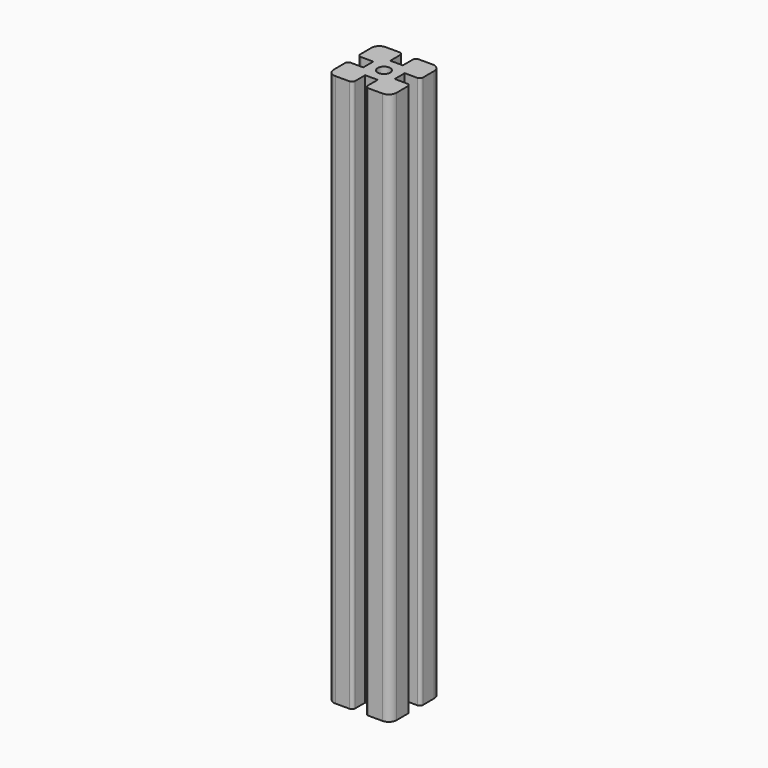
from build123d import *

# Parameters (mm, degrees)
F0_R     = 4
F1_DEPTH = 352
F2_R     = 5
F3_R     = 2


with BuildPart() as f1:
    # F0 (on Top) → F1 (new body)
    with BuildSketch(Plane.XY):
        Polygon((20, 4), (20, 20), (4, 20), (4, 10), (-4, 10), (-4, 20), (-20, 20), (-20, 4), (-10, 4), (-10, -4), (-20, -4), (-20, -20), (-4, -20), (-4, -10), (4, -10), (4, -20), (20, -20), (20, -4), (10, -4), (10, 4), align=None)
        Circle(F0_R, mode=Mode.SUBTRACT)
    extrude(amount=F1_DEPTH)

    # F2
    f2_edges = [f1.edges().sort_by_distance(p)[0] for p in [
        (-20, 20, 176),
        (-20, -20, 176),
        (20, 20, 176),
        (20, -20, 176),
    ]]
    fillet(f2_edges, radius=F2_R)

    # F3
    f3_edges = [f1.edges().sort_by_distance(p)[0] for p in [
        (-4, 20, 176),
        (4, 20, 176),
        (20, 4, 176),
        (20, -4, 176),
        (4, -20, 176),
        (-4, -20, 176),
        (-20, -4, 176),
        (-20, 4, 176),
    ]]
    fillet(f3_edges, radius=F3_R)


solid = f1.part
